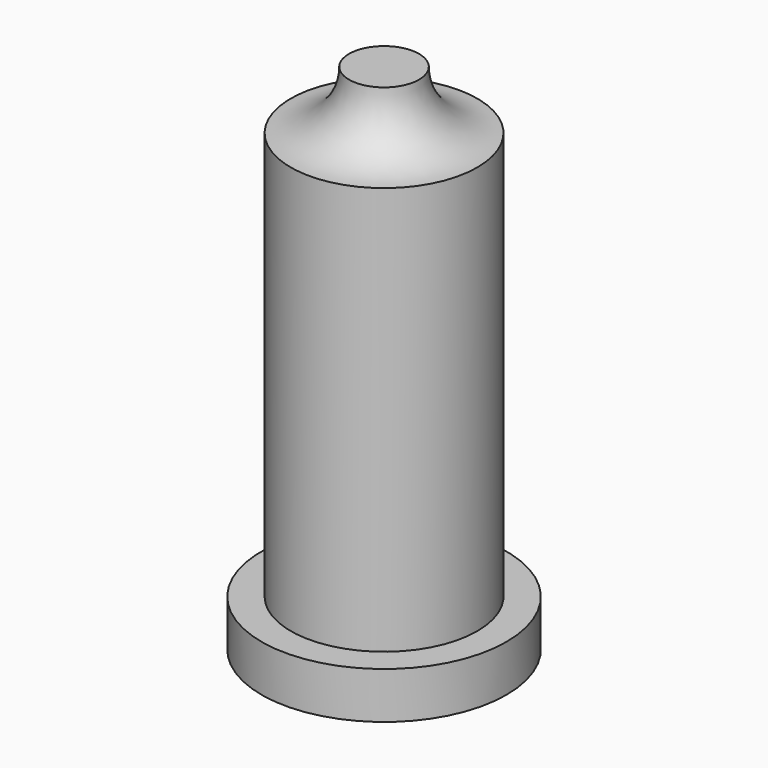
from build123d import *

# Parameters (mm, degrees)
F0_R     = 10.5
F1_DEPTH = 4
F2_R     = 8
F3_DEPTH = 39


with BuildPart() as f1:
    # F0 (on Top) → F1 (new body)
    with BuildSketch(Plane.XY):
        Circle(F0_R)
    extrude(amount=F1_DEPTH)

    # F2 (on Top) → F3 (join)
    with BuildSketch(Plane.XY):
        Circle(F2_R)
    extrude(amount=F3_DEPTH)

    # F4 (on Right) → F5 (revolve)
    with BuildSketch(Plane.YZ):
        with BuildLine():
            Line((3, 44), (0, 44))
            Line((0, 44), (0, 39))
            Line((0, 39), (8, 39))
            ThreePointArc((8, 39), (4.464466, 40.464466), (3, 44))
        make_face()
    revolve(axis=Axis((0, 0, 41.5), (0, 0, -1)))


solid = f1.part
